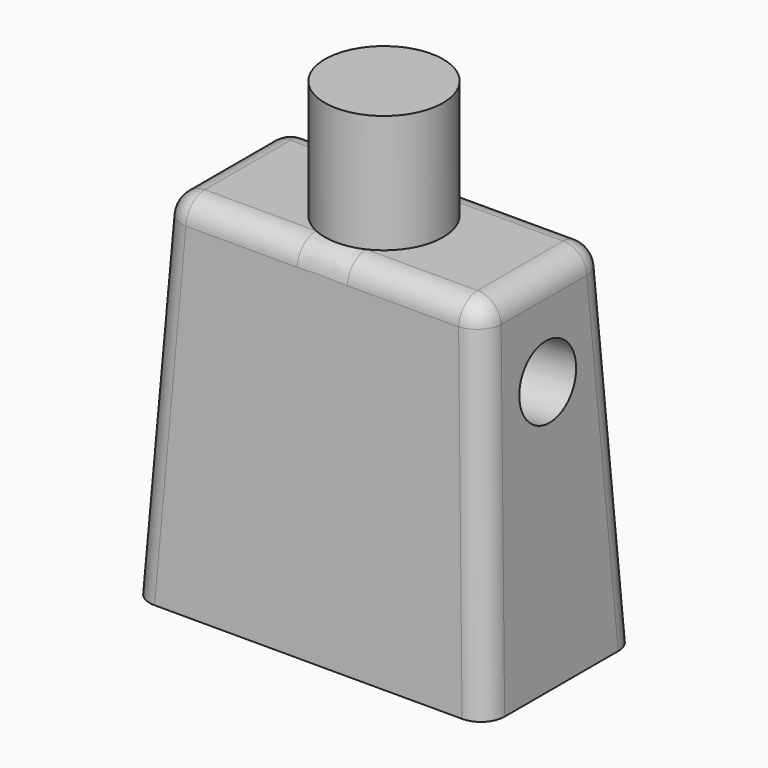
from build123d import *

# Parameters (mm, degrees)
F0_W     = 15
F0_H     = 8
F1_DEPTH = 15
F1_TAPER = 3
F2_R     = 2.5
F3_DEPTH = 5
F4_R     = 1
F5_R     = 1.5
F6_DEPTH = 3
F7_R     = 1.5
F8_DEPTH = 3


with BuildPart() as f1:
    # F0 (on Top) → F1 (new body)
    with BuildSketch(Plane.XY):
        Rectangle(F0_W, F0_H)
    extrude(amount=F1_DEPTH, taper=F1_TAPER)

    # F2 (on face) → F3 (join)
    with BuildSketch(Plane.XY.offset(15)):
        Circle(F2_R)
    extrude(amount=F3_DEPTH)

    # F4
    f4_edges = [f1.edges().sort_by_distance(p)[0] for p in [
        (-7.106942, -3.606942, 7.5),
        (7.106942, -3.606942, 7.5),
        (7.106942, 3.606942, 7.5),
        (-7.106942, 3.606942, 7.5),
        (6.713883, 0, 15),
        (0, -3.213883, 15),
        (-6.713883, 0, 15),
        (0, 3.213883, 15),
    ]]
    fillet(f4_edges, radius=F4_R)

    # F5 (on face) → F6 (cut)
    with BuildSketch(Plane(origin=(7.4794571076, 0, 0.3919817373), x_dir=(0, 1, 0), z_dir=(0.9986295348, 0, 0.0523359562))):
        with Locations((0, 10.6777304862)):
            Circle(F5_R)
    extrude(amount=-F6_DEPTH, mode=Mode.SUBTRACT)

    # F7 (on face) → F8 (cut)
    with BuildSketch(Plane(origin=(-7.4794571076, 0, 0.3919817373), x_dir=(0, -1, 0), z_dir=(-0.9986295348, 0, 0.0523359562))):
        with Locations((0, 10.6777304862)):
            Circle(F7_R)
    extrude(amount=-F8_DEPTH, mode=Mode.SUBTRACT)


solid = f1.part
